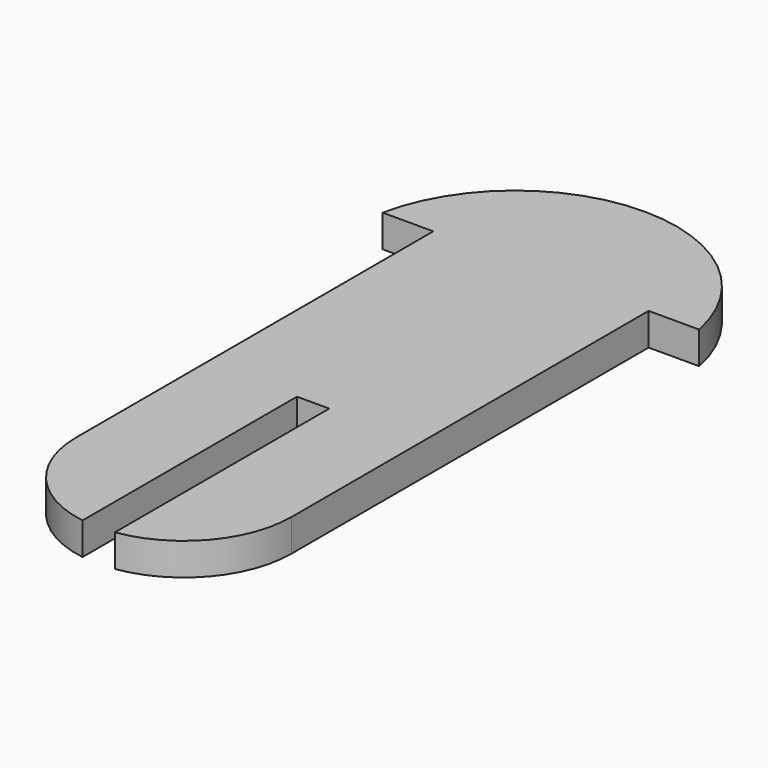
from build123d import *

# Parameters (mm, degrees)
F1_DEPTH = 3


with BuildPart() as f1:
    # F0 (on Top) → F1 (new body)
    with BuildSketch(Plane.XY):
        Polygon((10, 20.725), (-10, 20.725), (-10, -20.725), (-1.5, -20.725), (-1.5, -5.725), (1.5, -5.725), (1.5, -20.725), (10, -20.725), align=None)
        with BuildLine():
            Line((-14.6969384567, 20.725), (-10, 20.725))
            Line((-10, 20.725), (10, 20.725))
            Line((10, 20.725), (14.6969384567, 20.725))
            ThreePointArc((14.6969384567, 20.725), (0, 32.725), (-14.6969384567, 20.725))
        make_face()
        with BuildLine():
            Line((-1.5, -20.725), (-10, -20.725))
            ThreePointArc((-10, -20.725), (-7.5828754441, -27.2442024052), (-1.5, -30.6118599666))
            Line((-1.5, -30.6118599666), (-1.5, -20.725))
        make_face()
        with BuildLine():
            ThreePointArc((1.5, -30.6118599666), (7.5828754441, -27.2442024052), (10, -20.725))
            Line((10, -20.725), (1.5, -20.725))
            Line((1.5, -20.725), (1.5, -30.6118599666))
        make_face()
    extrude(amount=F1_DEPTH)


solid = f1.part
